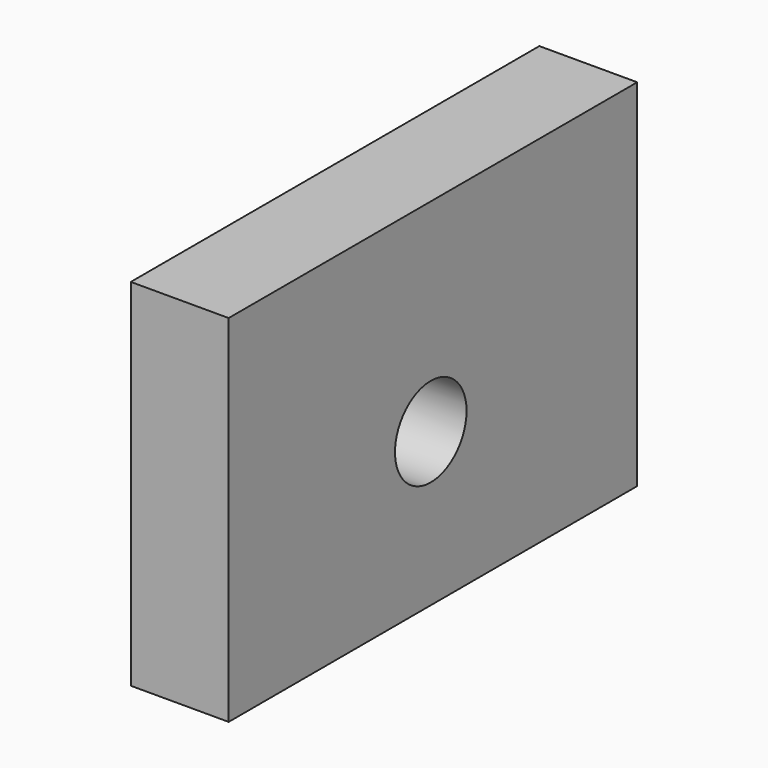
from build123d import *

# Parameters (mm, degrees)
F0_W     = 132.518433
F0_H     = 92.262458
F1_DEPTH = 25.4
F2_R     = 11.606644
F3_DEPTH = 25.4


with BuildPart() as f1:
    # F0 (on Right) → F1 (new body)
    with BuildSketch(Plane.YZ):
        with Locations((22.086364, 6.459011)):
            Rectangle(F0_W, F0_H)
    extrude(amount=F1_DEPTH)

    # F2 (on face) → F3 (cut)
    with BuildSketch(Plane.YZ.offset(25.4)):
        with Locations((21.379311, 0)):
            Circle(F2_R)
    extrude(amount=-F3_DEPTH, mode=Mode.SUBTRACT)


solid = f1.part
